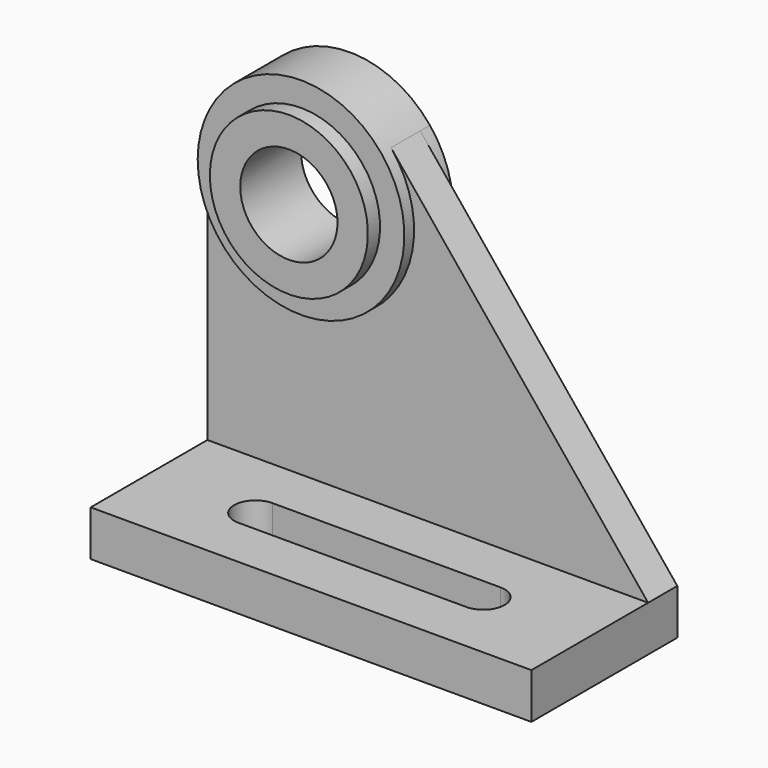
from build123d import *

# Parameters (mm, degrees)
F0_W     = 145
F0_H     = 60
F1_DEPTH = 15
F4_DEPTH = 12
F3_R     = 26
F5_DEPTH = 16
F3_R_2   = 16
F6_DEPTH = 21
F7_DEPTH = 4
F8_DEPTH = 4


with BuildPart() as f1:
    # F0 (on Top) → F1 (new body)
    with BuildSketch(Plane.XY):
        Rectangle(F0_W, F0_H)
        with BuildLine():
            ThreePointArc((37.5, 1), (44.5, -6), (37.5, -13))
            Line((37.5, -13), (-37.5, -13))
            ThreePointArc((-37.5, -13), (-44.5, -6), (-37.5, 1))
            Line((-37.5, 1), (37.5, 1))
        make_face(mode=Mode.SUBTRACT)
    extrude(amount=F1_DEPTH)

    # F3 (on offset) → F4 (join)
    with BuildSketch(Plane(origin=(0, 30, 0), x_dir=(-1, 0, 0), z_dir=(0, 1, 0))):
        with BuildLine():
            Line((12.092110391, 119.3122868922), (-72.5, 15))
            Line((-72.5, 15), (72.5, 15))
            Line((72.5, 15), (72.5, 97.8967932859))
            ThreePointArc((72.5, 97.8967932859), (27.1392836208, 65.8509804026), (12.092110391, 119.3122868922))
        make_face()
    extrude(amount=-F4_DEPTH)

    # F3 (on offset) → F5 (join)
    with BuildSketch(Plane(origin=(0, 30, 0), x_dir=(-1, 0, 0), z_dir=(0, 1, 0))):
        with BuildLine():
            ThreePointArc((72.5, 97.8967932859), (49.8607163792, 129.9426061692), (12.092110391, 119.3122868922))
            ThreePointArc((12.092110391, 119.3122868922), (27.1392836208, 65.8509804026), (72.5, 97.8967932859))
        make_face()
        with Locations((38.5, 97.8967932859)):
            Circle(F3_R, mode=Mode.SUBTRACT)
    extrude(amount=-F5_DEPTH)

    # F3 (on offset) → F6 (join)
    with BuildSketch(Plane(origin=(0, 30, 0), x_dir=(-1, 0, 0), z_dir=(0, 1, 0))):
        with Locations((38.5, 97.8967932859)):
            Circle(F3_R)
        with Locations((38.5, 97.8967932859)):
            Circle(F3_R_2, mode=Mode.SUBTRACT)
    extrude(amount=-F6_DEPTH)

    # F3 (on offset) → F7 (join)
    with BuildSketch(Plane(origin=(0, 30, 0), x_dir=(-1, 0, 0), z_dir=(0, 1, 0))):
        with BuildLine():
            ThreePointArc((72.5, 97.8967932859), (49.8607163792, 129.9426061692), (12.092110391, 119.3122868922))
            ThreePointArc((12.092110391, 119.3122868922), (27.1392836208, 65.8509804026), (72.5, 97.8967932859))
        make_face()
        with Locations((38.5, 97.8967932859)):
            Circle(F3_R, mode=Mode.SUBTRACT)
    extrude(amount=F7_DEPTH)

    # F3 (on offset) → F8 (join)
    with BuildSketch(Plane(origin=(0, 30, 0), x_dir=(-1, 0, 0), z_dir=(0, 1, 0))):
        with Locations((38.5, 97.8967932859)):
            Circle(F3_R)
        with Locations((38.5, 97.8967932859)):
            Circle(F3_R_2, mode=Mode.SUBTRACT)
    extrude(amount=F8_DEPTH)


solid = f1.part
